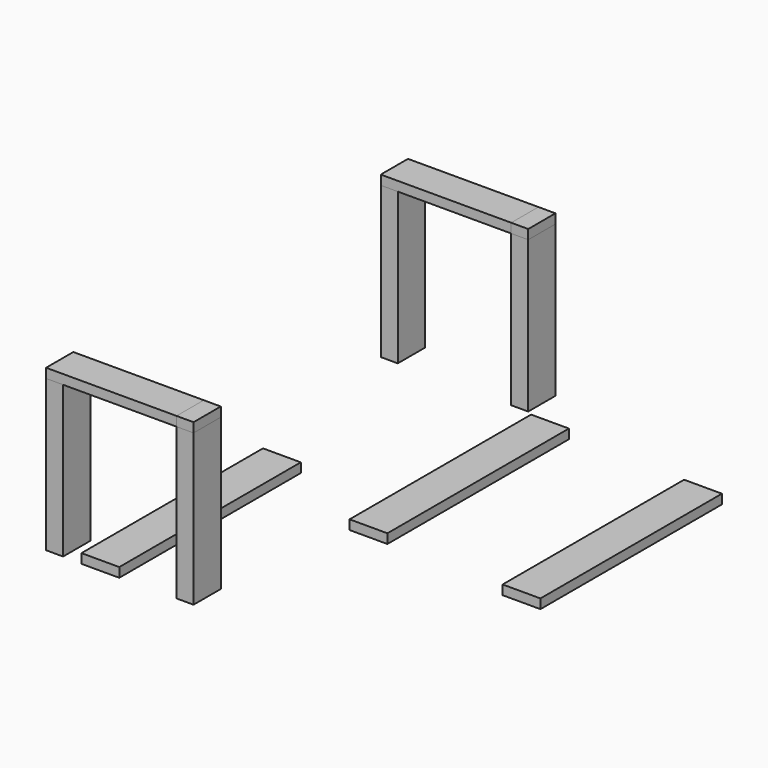
from build123d import *

# Parameters (mm, degrees)
F0_W     = 45
F0_H     = 90
F1_DEPTH = 400
F3_W     = 90
F3_H     = 25
F4_DEPTH = 345
F5_W     = 90
F5_H     = 25
F6_DEPTH = 45
F8_W     = 100
F8_H     = 600
F9_DEPTH = 25


with BuildPart() as f1:
    # F0 (on Top) → F1 (new body)
    with BuildSketch(Plane.XY):
        with Locations((-172.5, -553.213375)):
            Rectangle(F0_W, F0_H)
        with Locations((172.5, -553.213375)):
            Rectangle(F0_W, F0_H)
    extrude(amount=F1_DEPTH)


with BuildPart() as f4:
    # F3 (on face) → F4 (new body)
    with BuildSketch(Plane(origin=(150, 0, 0), x_dir=(0, -1, 0), z_dir=(-1, 0, 0))):
        with Locations((553.213375, 412.5)):
            Rectangle(F3_W, F3_H)
    extrude(amount=F4_DEPTH)


with BuildPart() as f6:
    # F5 (on face) → F6 (new body)
    with BuildSketch(Plane.YZ.offset(150)):
        with Locations((-553.213375, 412.5)):
            Rectangle(F5_W, F5_H)
    extrude(amount=F6_DEPTH)


with BuildPart() as f7_1:
    # F7: instance of F1
    add(f1.part.mirror(Plane.XZ))


with BuildPart() as f7_2:
    # F7: instance of F4
    add(f4.part.mirror(Plane.XZ))


with BuildPart() as f7_3:
    # F7: instance of F6
    add(f6.part.mirror(Plane.XZ))


with BuildPart() as f9:
    # F8 (on Top) → F9 (new body)
    with BuildSketch(Plane.XY):
        with Locations((716.793048, 133.814666)):
            Rectangle(F8_W, F8_H)
        with Locations((288.001406, 163.889024)):
            Rectangle(F8_W, F8_H)
        with Locations((-50, -300)):
            Rectangle(F8_W, F8_H)
    extrude(amount=F9_DEPTH)


solid = Compound([f1.part, f4.part, f6.part, f7_1.part, f7_2.part, f7_3.part, f9.part])
